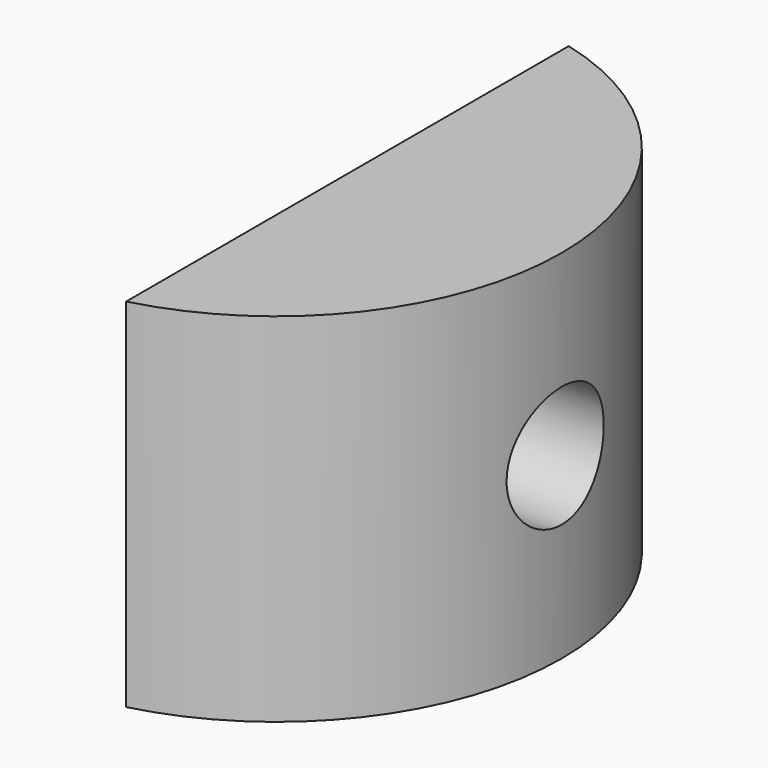
from build123d import *

# Parameters (mm, degrees)
PAD_DEPTH       = 5
POCKET_DEPTH    = 2
SKETCH002_R     = 1.7
POCKET001_DEPTH = 4.001


with BuildPart() as part:
    # Sketch → Pad (new body, symmetric)
    with BuildSketch(Plane.XY):
        with BuildLine():
            ThreePointArc((2, -7.745967), (8, 0), (2, 7.745967))
            Line((2, 7.745967), (2, -7.745967))
        make_face()
    extrude(amount=PAD_DEPTH, both=True)

    # Sketch001 → Pocket (cut)
    with BuildSketch(Plane(origin=(2, 0, 0), x_dir=(0, -1, 0), z_dir=(-1, 0, 0))):
        Polygon((2.8, -1.616581), (2.8, 1.616581), (0, 3.233162), (-2.8, 1.616581), (-2.8, -1.616581), (0, -3.233162), align=None)
    extrude(amount=-POCKET_DEPTH, mode=Mode.SUBTRACT)

    # Sketch002 → Pocket001 (cut, through all)
    with BuildSketch(Plane(origin=(4, 0, 0), x_dir=(0, -1, 0), z_dir=(-1, 0, 0))):
        Circle(SKETCH002_R)
    extrude(amount=-POCKET001_DEPTH, mode=Mode.SUBTRACT)


solid = part.part
